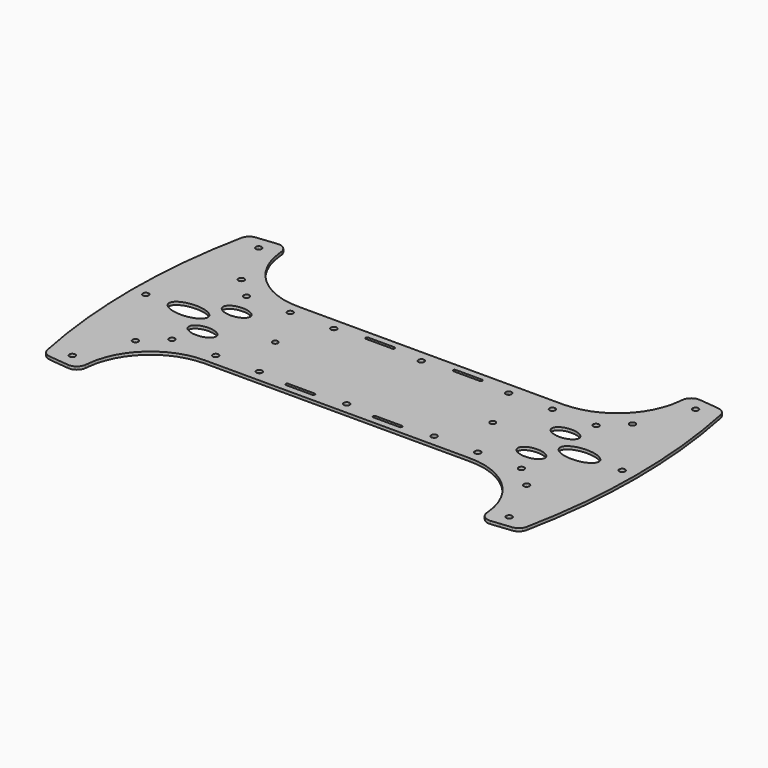
from build123d import *

# Parameters (mm, degrees)
F0_R     = 1.5
F1_DEPTH = 1.5


with BuildPart() as f1:
    # F0 (on Top) → F1 (new body)
    with BuildSketch(Plane.XY):
        with BuildLine():
            Line((-121.2556141995, 711.6457370259), (-131.7556141995, 711.6457370259))
            ThreePointArc((-131.7556141995, 711.6457370259), (-132.1949540277, 710.5850768541), (-133.2556141995, 710.1457370259))
            Line((-133.2556141995, 710.1457370259), (-133.2556141995, 653.0572210016))
            ThreePointArc((-133.2556141995, 653.0572210016), (-131.9496934446, 654.3807580659), (-130.2504678897, 655.1356169219))
            Line((-130.2504678897, 655.1356169219), (-126.9809034148, 686.2434449429))
            Line((-126.9809034148, 686.2434449429), (-112.0630749843, 684.6755179939))
            Line((-112.0630749843, 684.6755179939), (-112.7947741962, 677.7138650203))
            Line((-112.7947741962, 677.7138650203), (-116.244213515, 644.8946421792))
            ThreePointArc((-116.244213515, 644.8946421792), (-114.5957609711, 646.4950310884), (-113.8370558712, 648.6636728341))
            Line((-113.8370558712, 648.6636728341), (-113.6646260243, 650.3042332403))
            ThreePointArc((-113.6646260243, 650.3042332403), (-102.2759309089, 672.6558059176), (-78.8563596864, 681.6457370259))
            Line((-78.8563596864, 681.6457370259), (-10.5759569506, 681.6457370259))
            Line((-10.5759569506, 681.6457370259), (-10.5759569506, 686.1457370259))
            ThreePointArc((-10.5759569506, 686.1457370259), (-12.0759569506, 687.6457370259), (-10.5759569506, 689.1457370259))
            Line((-10.5759569506, 689.1457370259), (-10.5759569506, 711.6457370259))
            Line((-10.5759569506, 711.6457370259), (-65.1759569506, 711.6457370259))
            ThreePointArc((-65.1759569506, 711.6457370259), (-66.5759569506, 710.2457370259), (-67.9759569506, 711.6457370259))
            Line((-67.9759569506, 711.6457370259), (-101.2556141995, 711.6457370259))
            add(Edge.make_bspline(
                [(-111.2556141995, 706.6457370259), (-101.2556141995, 706.6457370259), (-101.2556141995, 711.6457370259)],
                knots=[4.7123889804, 4.7123889804, 4.7123889804, 6.2831853072, 6.2831853072, 6.2831853072], degree=2, weights=[1, 0.7071067812, 1]))
            add(Edge.make_bspline(
                [(-121.2556141995, 711.6457370259), (-121.2556141995, 706.6457370259), (-111.2556141995, 706.6457370259)],
                knots=[3.1415926536, 3.1415926536, 3.1415926536, 4.7123889804, 4.7123889804, 4.7123889804], degree=2, weights=[1, 0.7071067812, 1]))
        make_face()
        with BuildLine():
            ThreePointArc((-109.8029913841, 677.5570720314), (-111.381495466, 676.059127737), (-112.7947741962, 677.7138650203))
            ThreePointArc((-112.7947741962, 677.7138650203), (-111.2244873021, 679.0550163258), (-109.8029913841, 677.5570720314))
        make_face(mode=Mode.SUBTRACT)
        with Locations((-100.5759569506, 687.6457370259)):
            Circle(F0_R, mode=Mode.SUBTRACT)
        with Locations((-78.0759569506, 687.6457370259)):
            Circle(F0_R, mode=Mode.SUBTRACT)
        with BuildLine():
            add(Edge.make_bspline(
                [(-95.2556141995, 696.6457370259), (-83.1312585465, 696.6457370259), (-89.193436373, 702.6457370259), (-95.2556141995, 708.6457370259), (-101.317792026, 702.6457370259), (-107.3799698525, 696.6457370259), (-95.2556141995, 696.6457370259)],
                knots=[4.7123889804, 4.7123889804, 4.7123889804, 6.8067840828, 6.8067840828, 8.9011791852, 8.9011791852, 10.9955742876, 10.9955742876, 10.9955742876], degree=2, weights=[1, 0.5, 1, 0.5, 1, 0.5, 1]))
        make_face(mode=Mode.SUBTRACT)
        with Locations((-55.5759569506, 687.6457370259)):
            Circle(F0_R, mode=Mode.SUBTRACT)
        with BuildLine():
            ThreePointArc((-26.3259569506, 686.6457370259), (-25.7956268647, 686.4260671118), (-25.5759569506, 685.8957370259))
            ThreePointArc((-25.5759569506, 685.8957370259), (-25.7956268647, 685.36540694), (-26.3259569506, 685.1457370259))
            Line((-26.3259569506, 685.1457370259), (-39.8259569506, 685.1457370259))
            ThreePointArc((-39.8259569506, 685.1457370259), (-40.3562870365, 685.36540694), (-40.5759569506, 685.8957370259))
            ThreePointArc((-40.5759569506, 685.8957370259), (-40.3562870365, 686.4260671118), (-39.8259569506, 686.6457370259))
            Line((-39.8259569506, 686.6457370259), (-26.3259569506, 686.6457370259))
        make_face(mode=Mode.SUBTRACT)
        with BuildLine():
            ThreePointArc((-133.2556141995, 713.1457370259), (-132.1949540277, 712.7063971977), (-131.7556141995, 711.6457370259))
            Line((-131.7556141995, 711.6457370259), (-121.2556141995, 711.6457370259))
            add(Edge.make_bspline(
                [(-101.2556141995, 711.6457370259), (-101.2556141995, 716.6457370259), (-111.2556141995, 716.6457370259), (-121.2556141995, 716.6457370259), (-121.2556141995, 711.6457370259)],
                knots=[0, 0, 0, 1.5707963268, 1.5707963268, 3.1415926536, 3.1415926536, 3.1415926536], degree=2, weights=[1, 0.7071067812, 1, 0.7071067812, 1]))
            Line((-101.2556141995, 711.6457370259), (-67.9759569506, 711.6457370259))
            ThreePointArc((-67.9759569506, 711.6457370259), (-66.5759569506, 713.0457370259), (-65.1759569506, 711.6457370259))
            Line((-65.1759569506, 711.6457370259), (-10.5759569506, 711.6457370259))
            Line((-10.5759569506, 711.6457370259), (-10.5759569506, 734.1457370259))
            ThreePointArc((-10.5759569506, 734.1457370259), (-12.0759569506, 735.6457370259), (-10.5759569506, 737.1457370259))
            Line((-10.5759569506, 737.1457370259), (-10.5759569506, 741.6457370259))
            Line((-10.5759569506, 741.6457370259), (-78.8563596864, 741.6457370259))
            ThreePointArc((-78.8563596864, 741.6457370259), (-102.2759309089, 750.6356681342), (-113.6646260243, 772.9872408115))
            Line((-113.6646260243, 772.9872408115), (-113.8370558712, 774.6278012177))
            ThreePointArc((-113.8370558712, 774.6278012177), (-114.5957609711, 776.7964429634), (-116.244213515, 778.3968318726))
            Line((-116.244213515, 778.3968318726), (-112.7947742123, 745.5776091847))
            Line((-112.7947742123, 745.5776091847), (-112.0630749843, 738.6159560579))
            Line((-112.0630749843, 738.6159560579), (-119.5219891995, 737.8319925834))
            Line((-119.5219891995, 737.8319925834), (-126.9809034148, 737.0480291089))
            Line((-126.9809034148, 737.0480291089), (-130.2504678897, 768.1558571299))
            ThreePointArc((-130.2504678897, 768.1558571299), (-131.9496934446, 768.9107159859), (-133.2556141995, 770.2342530502))
            Line((-133.2556141995, 770.2342530502), (-133.2556141995, 713.1457370259))
        make_face()
        with BuildLine():
            add(Edge.make_bspline(
                [(-95.2556141995, 718.6457370259), (-83.1312585465, 718.6457370259), (-89.193436373, 724.6457370259), (-95.2556141995, 730.6457370259), (-101.317792026, 724.6457370259), (-107.3799698525, 718.6457370259), (-95.2556141995, 718.6457370259)],
                knots=[4.7123889804, 4.7123889804, 4.7123889804, 6.8067840828, 6.8067840828, 8.9011791852, 8.9011791852, 10.9955742876, 10.9955742876, 10.9955742876], degree=2, weights=[1, 0.5, 1, 0.5, 1, 0.5, 1]))
        make_face(mode=Mode.SUBTRACT)
        with Locations((-100.5759569506, 735.6457370259)):
            Circle(F0_R, mode=Mode.SUBTRACT)
        with Locations((-78.0759569506, 735.6457370259)):
            Circle(F0_R, mode=Mode.SUBTRACT)
        with Locations((-55.5759569506, 735.6457370259)):
            Circle(F0_R, mode=Mode.SUBTRACT)
        with BuildLine():
            ThreePointArc((-40.5759569506, 737.3957370259), (-40.3562870365, 737.9260671118), (-39.8259569506, 738.1457370259))
            Line((-39.8259569506, 738.1457370259), (-26.3259569506, 738.1457370259))
            ThreePointArc((-26.3259569506, 738.1457370259), (-25.7956268647, 737.9260671118), (-25.5759569506, 737.3957370259))
            ThreePointArc((-25.5759569506, 737.3957370259), (-25.7956268647, 736.86540694), (-26.3259569506, 736.6457370259))
            Line((-26.3259569506, 736.6457370259), (-39.8259569506, 736.6457370259))
            ThreePointArc((-39.8259569506, 736.6457370259), (-40.3562870365, 736.86540694), (-40.5759569506, 737.3957370259))
        make_face(mode=Mode.SUBTRACT)
        with BuildLine():
            ThreePointArc((-109.8029913841, 745.7344020204), (-111.224487379, 744.2364577219), (-112.7947742123, 745.5776091847))
            ThreePointArc((-112.7947742123, 745.5776091847), (-111.3814953891, 747.2323463188), (-109.8029913841, 745.7344020204))
        make_face(mode=Mode.SUBTRACT)
        with BuildLine():
            Line((-10.5759569506, 734.1457370259), (-10.5759569506, 711.6457370259))
            Line((-10.5759569506, 711.6457370259), (44.0240430494, 711.6457370259))
            ThreePointArc((44.0240430494, 711.6457370259), (45.4240430494, 713.0457370259), (46.8240430494, 711.6457370259))
            Line((46.8240430494, 711.6457370259), (80.1037002983, 711.6457370259))
            add(Edge.make_bspline(
                [(100.1037002983, 711.6457370259), (100.1037002983, 716.6457370259), (90.1037002983, 716.6457370259), (80.1037002983, 716.6457370259), (80.1037002983, 711.6457370259)],
                knots=[0, 0, 0, 1.5707963268, 1.5707963268, 3.1415926536, 3.1415926536, 3.1415926536], degree=2, weights=[1, 0.7071067812, 1, 0.7071067812, 1]))
            Line((100.1037002983, 711.6457370259), (110.6037002983, 711.6457370259))
            ThreePointArc((110.6037002983, 711.6457370259), (111.0430401265, 712.7063971977), (112.1037002983, 713.1457370259))
            Line((112.1037002983, 713.1457370259), (112.1037002983, 770.2342530502))
            ThreePointArc((112.1037002983, 770.2342530502), (110.7977795433, 768.9107159859), (109.0985539885, 768.1558571299))
            Line((109.0985539885, 768.1558571299), (105.8289895135, 737.0480291089))
            Line((105.8289895135, 737.0480291089), (98.3700752983, 737.8319925834))
            Line((98.3700752983, 737.8319925834), (90.911161083, 738.6159560579))
            Line((90.911161083, 738.6159560579), (91.6428602959, 745.5776090401))
            Line((91.6428602959, 745.5776090401), (95.0922996137, 778.3968318726))
            ThreePointArc((95.0922996137, 778.3968318726), (93.4438470699, 776.7964429634), (92.6851419699, 774.6278012177))
            Line((92.6851419699, 774.6278012177), (92.512712123, 772.9872408115))
            ThreePointArc((92.512712123, 772.9872408115), (81.1240170077, 750.6356681342), (57.7044457851, 741.6457370259))
            Line((57.7044457851, 741.6457370259), (-10.5759569506, 741.6457370259))
            Line((-10.5759569506, 741.6457370259), (-10.5759569506, 737.1457370259))
            ThreePointArc((-10.5759569506, 737.1457370259), (-9.5152967788, 736.7063971977), (-9.0759569506, 735.6457370259))
            ThreePointArc((-9.0759569506, 735.6457370259), (-9.5152967788, 734.5850768541), (-10.5759569506, 734.1457370259))
        make_face()
        with BuildLine():
            ThreePointArc((4.4240430494, 737.3957370259), (4.6437129635, 737.9260671118), (5.1740430494, 738.1457370259))
            Line((5.1740430494, 738.1457370259), (18.6740430494, 738.1457370259))
            ThreePointArc((18.6740430494, 738.1457370259), (19.2043731353, 737.9260671118), (19.4240430494, 737.3957370259))
            ThreePointArc((19.4240430494, 737.3957370259), (19.2043731353, 736.86540694), (18.6740430494, 736.6457370259))
            Line((18.6740430494, 736.6457370259), (5.1740430494, 736.6457370259))
            ThreePointArc((5.1740430494, 736.6457370259), (4.6437129635, 736.86540694), (4.4240430494, 737.3957370259))
        make_face(mode=Mode.SUBTRACT)
        with Locations((34.4240430494, 735.6457370259)):
            Circle(F0_R, mode=Mode.SUBTRACT)
        with BuildLine():
            add(Edge.make_bspline(
                [(74.1037002983, 718.6457370259), (86.2280559512, 718.6457370259), (80.1658781247, 724.6457370259), (74.1037002983, 730.6457370259), (68.0415224718, 724.6457370259), (61.9793446453, 718.6457370259), (74.1037002983, 718.6457370259)],
                knots=[4.7123889804, 4.7123889804, 4.7123889804, 6.8067840828, 6.8067840828, 8.9011791852, 8.9011791852, 10.9955742876, 10.9955742876, 10.9955742876], degree=2, weights=[1, 0.5, 1, 0.5, 1, 0.5, 1]))
        make_face(mode=Mode.SUBTRACT)
        with Locations((56.9240430494, 735.6457370259)):
            Circle(F0_R, mode=Mode.SUBTRACT)
        with Locations((79.4240430494, 735.6457370259)):
            Circle(F0_R, mode=Mode.SUBTRACT)
        with BuildLine():
            ThreePointArc((91.6510774828, 745.7344020204), (91.6490217775, 745.6558979427), (91.6428602959, 745.5776090401))
            ThreePointArc((91.6428602959, 745.5776090401), (88.6531331882, 745.812906098), (91.6510774828, 745.7344020204))
        make_face(mode=Mode.SUBTRACT)
        with BuildLine():
            Line((44.0240430494, 711.6457370259), (-10.5759569506, 711.6457370259))
            Line((-10.5759569506, 711.6457370259), (-10.5759569506, 689.1457370259))
            ThreePointArc((-10.5759569506, 689.1457370259), (-9.5152967788, 688.7063971977), (-9.0759569506, 687.6457370259))
            ThreePointArc((-9.0759569506, 687.6457370259), (-9.5152967788, 686.5850768541), (-10.5759569506, 686.1457370259))
            Line((-10.5759569506, 686.1457370259), (-10.5759569506, 681.6457370259))
            Line((-10.5759569506, 681.6457370259), (57.7044457851, 681.6457370259))
            ThreePointArc((57.7044457851, 681.6457370259), (81.1240170077, 672.6558059176), (92.512712123, 650.3042332403))
            Line((92.512712123, 650.3042332403), (92.6851419699, 648.6636728341))
            ThreePointArc((92.6851419699, 648.6636728341), (93.4438470699, 646.4950310884), (95.0922996137, 644.8946421792))
            Line((95.0922996137, 644.8946421792), (91.6428603111, 677.7138648671))
            Line((91.6428603111, 677.7138648671), (90.911161083, 684.6755179939))
            Line((90.911161083, 684.6755179939), (98.3700752983, 685.4594814684))
            Line((98.3700752983, 685.4594814684), (105.8289895135, 686.2434449429))
            Line((105.8289895135, 686.2434449429), (109.0985539885, 655.1356169219))
            ThreePointArc((109.0985539885, 655.1356169219), (110.7977795433, 654.3807580659), (112.1037002983, 653.0572210016))
            Line((112.1037002983, 653.0572210016), (112.1037002983, 710.1457370259))
            ThreePointArc((112.1037002983, 710.1457370259), (111.0430401265, 710.5850768541), (110.6037002983, 711.6457370259))
            Line((110.6037002983, 711.6457370259), (100.1037002983, 711.6457370259))
            add(Edge.make_bspline(
                [(90.1037002983, 706.6457370259), (100.1037002983, 706.6457370259), (100.1037002983, 711.6457370259)],
                knots=[4.7123889804, 4.7123889804, 4.7123889804, 6.2831853072, 6.2831853072, 6.2831853072], degree=2, weights=[1, 0.7071067812, 1]))
            add(Edge.make_bspline(
                [(80.1037002983, 711.6457370259), (80.1037002983, 706.6457370259), (90.1037002983, 706.6457370259)],
                knots=[3.1415926536, 3.1415926536, 3.1415926536, 4.7123889804, 4.7123889804, 4.7123889804], degree=2, weights=[1, 0.7071067812, 1]))
            Line((80.1037002983, 711.6457370259), (46.8240430494, 711.6457370259))
            ThreePointArc((46.8240430494, 711.6457370259), (45.4240430494, 710.2457370259), (44.0240430494, 711.6457370259))
        make_face()
        with BuildLine():
            ThreePointArc((91.6510774828, 677.5570720314), (88.6531331844, 677.4785680264), (91.6428603111, 677.7138648671))
            ThreePointArc((91.6428603111, 677.7138648671), (91.6490217813, 677.6355760365), (91.6510774828, 677.5570720314))
        make_face(mode=Mode.SUBTRACT)
        with BuildLine():
            Line((18.6740430494, 685.1457370259), (5.1740430494, 685.1457370259))
            ThreePointArc((5.1740430494, 685.1457370259), (4.6437129635, 685.36540694), (4.4240430494, 685.8957370259))
            ThreePointArc((4.4240430494, 685.8957370259), (4.6437129635, 686.4260671118), (5.1740430494, 686.6457370259))
            Line((5.1740430494, 686.6457370259), (18.6740430494, 686.6457370259))
            ThreePointArc((18.6740430494, 686.6457370259), (19.2043731353, 686.4260671118), (19.4240430494, 685.8957370259))
            ThreePointArc((19.4240430494, 685.8957370259), (19.2043731353, 685.36540694), (18.6740430494, 685.1457370259))
        make_face(mode=Mode.SUBTRACT)
        with Locations((34.4240430494, 687.6457370259)):
            Circle(F0_R, mode=Mode.SUBTRACT)
        with Locations((56.9240430494, 687.6457370259)):
            Circle(F0_R, mode=Mode.SUBTRACT)
        with Locations((79.4240430494, 687.6457370259)):
            Circle(F0_R, mode=Mode.SUBTRACT)
        with BuildLine():
            add(Edge.make_bspline(
                [(74.1037002983, 696.6457370259), (86.2280559512, 696.6457370259), (80.1658781247, 702.6457370259), (74.1037002983, 708.6457370259), (68.0415224718, 702.6457370259), (61.9793446453, 696.6457370259), (74.1037002983, 696.6457370259)],
                knots=[4.7123889804, 4.7123889804, 4.7123889804, 6.8067840828, 6.8067840828, 8.9011791852, 8.9011791852, 10.9955742876, 10.9955742876, 10.9955742876], degree=2, weights=[1, 0.5, 1, 0.5, 1, 0.5, 1]))
        make_face(mode=Mode.SUBTRACT)
        with BuildLine():
            Line((-119.8355745893, 740.8155582695), (-119.5219891995, 737.8319925834))
            Line((-119.5219891995, 737.8319925834), (-112.0630749843, 738.6159560579))
            Line((-112.0630749843, 738.6159560579), (-112.7947742123, 745.5776091847))
            Line((-112.7947742123, 745.5776091847), (-116.244213515, 778.3968318726))
            ThreePointArc((-116.244213515, 778.3968318726), (-117.7330101982, 778.9878644719), (-119.3323076643, 779.0777683782))
            Line((-119.3323076643, 779.0777683782), (-123.8076561935, 778.6073902935))
            Line((-123.8076561935, 778.6073902935), (-123.2327496455, 773.137519869))
            ThreePointArc((-123.2327496455, 773.137519869), (-122.0722610411, 772.7604542641), (-121.5759569506, 771.6457370259))
            ThreePointArc((-121.5759569506, 771.6457370259), (-121.9612397124, 770.6420411164), (-122.9191642557, 770.1539541828))
            Line((-122.9191642557, 770.1539541828), (-122.1874650128, 763.1923009153))
            Line((-122.1874650128, 763.1923009153), (-119.7011602744, 763.4536220734))
            ThreePointArc((-119.7011602744, 763.4536220734), (-118.2334625658, 763.0188702056), (-117.5030595572, 761.6736352092))
            Line((-117.5030595572, 761.6736352092), (-115.5692829867, 743.2749801449))
            ThreePointArc((-115.5692829867, 743.2749801449), (-116.0040348545, 741.8072824363), (-117.3492698509, 741.0768794277))
            Line((-117.3492698509, 741.0768794277), (-119.8355745893, 740.8155582695))
        make_face()
        with BuildLine():
            Line((-122.1874650128, 763.1923009153), (-119.8355745893, 740.8155582695))
            Line((-119.8355745893, 740.8155582695), (-117.3492698509, 741.0768794277))
            ThreePointArc((-117.3492698509, 741.0768794277), (-116.0040348545, 741.8072824363), (-115.5692829867, 743.2749801449))
            Line((-115.5692829867, 743.2749801449), (-117.5030595572, 761.6736352092))
            ThreePointArc((-117.5030595572, 761.6736352092), (-118.2334625658, 763.0188702056), (-119.7011602744, 763.4536220734))
            Line((-119.7011602744, 763.4536220734), (-122.1874650128, 763.1923009153))
        make_face()
        with BuildLine():
            Line((-122.3218793277, 740.5542371113), (-119.8355745893, 740.8155582695))
            Line((-119.8355745893, 740.8155582695), (-122.1874650128, 763.1923009153))
            Line((-122.1874650128, 763.1923009153), (-124.6737697513, 762.9309797571))
            ThreePointArc((-124.6737697513, 762.9309797571), (-126.0190047476, 762.2005767485), (-126.4537566155, 760.7328790398))
            Line((-126.4537566155, 760.7328790398), (-124.519980045, 742.3342239755))
            ThreePointArc((-124.519980045, 742.3342239755), (-123.7895770364, 740.9889889791), (-122.3218793277, 740.5542371113))
        make_face()
        with BuildLine():
            ThreePointArc((-124.4813192926, 771.1213739), (-126.8197356751, 768.5761139615), (-130.2504678897, 768.1558571299))
            Line((-130.2504678897, 768.1558571299), (-126.9809034148, 737.0480291089))
            Line((-126.9809034148, 737.0480291089), (-119.5219891995, 737.8319925834))
            Line((-119.5219891995, 737.8319925834), (-119.8355745893, 740.8155582695))
            Line((-119.8355745893, 740.8155582695), (-122.3218793277, 740.5542371113))
            ThreePointArc((-122.3218793277, 740.5542371113), (-123.7895770364, 740.9889889791), (-124.519980045, 742.3342239755))
            Line((-124.519980045, 742.3342239755), (-126.4537566155, 760.7328790398))
            ThreePointArc((-126.4537566155, 760.7328790398), (-126.0190047476, 762.2005767485), (-124.6737697513, 762.9309797571))
            Line((-124.6737697513, 762.9309797571), (-122.1874650128, 763.1923009153))
            Line((-122.1874650128, 763.1923009153), (-122.9191642557, 770.1539541828))
            ThreePointArc((-122.9191642557, 770.1539541828), (-123.8657080305, 770.3704750011), (-124.4813192926, 771.1213739))
        make_face()
        with BuildLine():
            Line((-126.9809034148, 686.2434449429), (-130.2504678897, 655.1356169219))
            ThreePointArc((-130.2504678897, 655.1356169219), (-126.8197356751, 654.7153600903), (-124.4813192926, 652.1701001518))
            ThreePointArc((-124.4813192926, 652.1701001518), (-122.8095395271, 653.1218880197), (-121.5759569506, 651.6457370259))
            ThreePointArc((-121.5759569506, 651.6457370259), (-122.4875148923, 650.2659776469), (-124.1142715426, 650.5631924272))
            ThreePointArc((-124.1142715426, 650.5631924272), (-124.1077512655, 650.4158898647), (-124.1055772096, 650.268459093))
            ThreePointArc((-124.1055772096, 650.268459093), (-125.7599240194, 646.5527351083), (-129.6282191018, 645.2958495716))
            Line((-129.6282191018, 645.2958495716), (-119.3323076643, 644.2137056736))
            ThreePointArc((-119.3323076643, 644.2137056736), (-117.7330101982, 644.3036095799), (-116.244213515, 644.8946421792))
            Line((-116.244213515, 644.8946421792), (-112.7947741962, 677.7138650203))
            Line((-112.7947741962, 677.7138650203), (-112.0630749843, 684.6755179939))
            Line((-112.0630749843, 684.6755179939), (-126.9809034148, 686.2434449429))
        make_face()
        with BuildLine():
            ThreePointArc((-124.519980045, 680.9572500763), (-123.7895770364, 682.3024850727), (-122.3218793277, 682.7372369405))
            Line((-122.3218793277, 682.7372369405), (-117.3492698509, 682.2145946241))
            ThreePointArc((-117.3492698509, 682.2145946241), (-116.0040348545, 681.4841916155), (-115.5692829867, 680.0164939069))
            Line((-115.5692829867, 680.0164939069), (-117.5030595572, 661.6178388426))
            ThreePointArc((-117.5030595572, 661.6178388426), (-118.2334625658, 660.2726038462), (-119.7011602744, 659.8378519784))
            Line((-119.7011602744, 659.8378519784), (-124.6737697513, 660.3604942947))
            ThreePointArc((-124.6737697513, 660.3604942947), (-126.0190047476, 661.0908973033), (-126.4537566155, 662.558595012))
            Line((-126.4537566155, 662.558595012), (-124.519980045, 680.9572500763))
        make_face(mode=Mode.SUBTRACT)
        with BuildLine():
            Line((-117.3492698509, 682.2145946241), (-122.3218793277, 682.7372369405))
            ThreePointArc((-122.3218793277, 682.7372369405), (-123.7895770364, 682.3024850727), (-124.519980045, 680.9572500763))
            Line((-124.519980045, 680.9572500763), (-126.4537566155, 662.558595012))
            ThreePointArc((-126.4537566155, 662.558595012), (-126.0190047476, 661.0908973033), (-124.6737697513, 660.3604942947))
            Line((-124.6737697513, 660.3604942947), (-119.7011602744, 659.8378519784))
            ThreePointArc((-119.7011602744, 659.8378519784), (-118.2334625658, 660.2726038462), (-117.5030595572, 661.6178388426))
            Line((-117.5030595572, 661.6178388426), (-115.5692829867, 680.0164939069))
            ThreePointArc((-115.5692829867, 680.0164939069), (-116.0040348545, 681.4841916155), (-117.3492698509, 682.2145946241))
        make_face()
        with BuildLine():
            Line((91.6428603111, 677.7138648671), (95.0922996137, 644.8946421792))
            ThreePointArc((95.0922996137, 644.8946421792), (96.581096297, 644.3036095799), (98.1803937631, 644.2137056736))
            Line((98.1803937631, 644.2137056736), (102.6557422923, 644.6840837583))
            Line((102.6557422923, 644.6840837583), (102.0808357443, 650.1539541828))
            ThreePointArc((102.0808357443, 650.1539541828), (100.4322602063, 651.488944331), (101.7672503545, 653.137519869))
            Line((101.7672503545, 653.137519869), (101.0355511116, 660.0991731365))
            Line((101.0355511116, 660.0991731365), (98.5492463732, 659.8378519784))
            ThreePointArc((98.5492463732, 659.8378519784), (97.0815486645, 660.2726038462), (96.3511456559, 661.6178388426))
            Line((96.3511456559, 661.6178388426), (94.4173690855, 680.0164939069))
            ThreePointArc((94.4173690855, 680.0164939069), (94.8521209533, 681.4841916155), (96.1973559497, 682.2145946241))
            Line((96.1973559497, 682.2145946241), (98.6836606881, 682.4759157823))
            Line((98.6836606881, 682.4759157823), (98.3700752983, 685.4594814684))
            Line((98.3700752983, 685.4594814684), (90.911161083, 684.6755179939))
            Line((90.911161083, 684.6755179939), (91.6428603111, 677.7138648671))
        make_face()
        with BuildLine():
            Line((101.0355511116, 660.0991731365), (98.6836606881, 682.4759157823))
            Line((98.6836606881, 682.4759157823), (96.1973559497, 682.2145946241))
            ThreePointArc((96.1973559497, 682.2145946241), (94.8521209533, 681.4841916155), (94.4173690855, 680.0164939069))
            Line((94.4173690855, 680.0164939069), (96.3511456559, 661.6178388426))
            ThreePointArc((96.3511456559, 661.6178388426), (97.0815486645, 660.2726038462), (98.5492463732, 659.8378519784))
            Line((98.5492463732, 659.8378519784), (101.0355511116, 660.0991731365))
        make_face()
        with BuildLine():
            Line((101.1699654265, 682.7372369405), (98.6836606881, 682.4759157823))
            Line((98.6836606881, 682.4759157823), (101.0355511116, 660.0991731365))
            Line((101.0355511116, 660.0991731365), (103.52185585, 660.3604942947))
            ThreePointArc((103.52185585, 660.3604942947), (104.8670908464, 661.0908973033), (105.3018427142, 662.558595012))
            Line((105.3018427142, 662.558595012), (103.3680661438, 680.9572500763))
            ThreePointArc((103.3680661438, 680.9572500763), (102.6376631351, 682.3024850727), (101.1699654265, 682.7372369405))
        make_face()
        with BuildLine():
            ThreePointArc((103.3294053913, 652.1701001518), (105.6678217739, 654.7153600903), (109.0985539885, 655.1356169219))
            Line((109.0985539885, 655.1356169219), (105.8289895135, 686.2434449429))
            Line((105.8289895135, 686.2434449429), (98.3700752983, 685.4594814684))
            Line((98.3700752983, 685.4594814684), (98.6836606881, 682.4759157823))
            Line((98.6836606881, 682.4759157823), (101.1699654265, 682.7372369405))
            ThreePointArc((101.1699654265, 682.7372369405), (102.6376631351, 682.3024850727), (103.3680661438, 680.9572500763))
            Line((103.3680661438, 680.9572500763), (105.3018427142, 662.558595012))
            ThreePointArc((105.3018427142, 662.558595012), (104.8670908464, 661.0908973033), (103.52185585, 660.3604942947))
            Line((103.52185585, 660.3604942947), (101.0355511116, 660.0991731365))
            Line((101.0355511116, 660.0991731365), (101.7672503545, 653.137519869))
            ThreePointArc((101.7672503545, 653.137519869), (102.7137941292, 652.9209990507), (103.3294053913, 652.1701001518))
        make_face()
        with BuildLine():
            ThreePointArc((98.1803937631, 779.0777683782), (96.581096297, 778.9878644719), (95.0922996137, 778.3968318726))
            Line((95.0922996137, 778.3968318726), (91.6428602959, 745.5776090401))
            Line((91.6428602959, 745.5776090401), (90.911161083, 738.6159560579))
            Line((90.911161083, 738.6159560579), (98.3700752983, 737.8319925834))
            Line((98.3700752983, 737.8319925834), (98.6836606881, 740.8155582695))
            Line((98.6836606881, 740.8155582695), (96.1973559497, 741.0768794277))
            ThreePointArc((96.1973559497, 741.0768794277), (94.8521209533, 741.8072824363), (94.4173690855, 743.2749801449))
            Line((94.4173690855, 743.2749801449), (96.3511456559, 761.6736352092))
            ThreePointArc((96.3511456559, 761.6736352092), (97.0815486645, 763.0188702056), (98.5492463732, 763.4536220734))
            Line((98.5492463732, 763.4536220734), (101.0355511116, 763.1923009153))
            Line((101.0355511116, 763.1923009153), (101.7672503545, 770.1539541828))
            ThreePointArc((101.7672503545, 770.1539541828), (100.4322602063, 771.8025297208), (102.0808357443, 773.137519869))
            Line((102.0808357443, 773.137519869), (102.6557422923, 778.6073902935))
            Line((102.6557422923, 778.6073902935), (98.1803937631, 779.0777683782))
        make_face()
        with BuildLine():
            Line((96.1973559497, 741.0768794277), (98.6836606881, 740.8155582695))
            Line((98.6836606881, 740.8155582695), (101.0355511116, 763.1923009153))
            Line((101.0355511116, 763.1923009153), (98.5492463732, 763.4536220734))
            ThreePointArc((98.5492463732, 763.4536220734), (97.0815486645, 763.0188702056), (96.3511456559, 761.6736352092))
            Line((96.3511456559, 761.6736352092), (94.4173690855, 743.2749801449))
            ThreePointArc((94.4173690855, 743.2749801449), (94.8521209533, 741.8072824363), (96.1973559497, 741.0768794277))
        make_face()
        with BuildLine():
            Line((101.0355511116, 763.1923009153), (98.6836606881, 740.8155582695))
            Line((98.6836606881, 740.8155582695), (101.1699654265, 740.5542371113))
            ThreePointArc((101.1699654265, 740.5542371113), (102.6376631351, 740.9889889791), (103.3680661438, 742.3342239755))
            Line((103.3680661438, 742.3342239755), (105.3018427142, 760.7328790398))
            ThreePointArc((105.3018427142, 760.7328790398), (104.8670908464, 762.2005767485), (103.52185585, 762.9309797571))
            Line((103.52185585, 762.9309797571), (101.0355511116, 763.1923009153))
        make_face()
        with BuildLine():
            Line((105.8289895135, 737.0480291089), (109.0985539885, 768.1558571299))
            ThreePointArc((109.0985539885, 768.1558571299), (105.6678217739, 768.5761139615), (103.3294053913, 771.1213739))
            ThreePointArc((103.3294053913, 771.1213739), (102.7137941292, 770.3704750011), (101.7672503545, 770.1539541828))
            Line((101.7672503545, 770.1539541828), (101.0355511116, 763.1923009153))
            Line((101.0355511116, 763.1923009153), (103.52185585, 762.9309797571))
            ThreePointArc((103.52185585, 762.9309797571), (104.8670908464, 762.2005767485), (105.3018427142, 760.7328790398))
            Line((105.3018427142, 760.7328790398), (103.3680661438, 742.3342239755))
            ThreePointArc((103.3680661438, 742.3342239755), (102.6376631351, 740.9889889791), (101.1699654265, 740.5542371113))
            Line((101.1699654265, 740.5542371113), (98.6836606881, 740.8155582695))
            Line((98.6836606881, 740.8155582695), (98.3700752983, 737.8319925834))
            Line((98.3700752983, 737.8319925834), (105.8289895135, 737.0480291089))
        make_face()
        with BuildLine():
            Line((112.1037002983, 775.8117768673), (112.1037002983, 770.2342530502))
            ThreePointArc((112.1037002983, 770.2342530502), (112.7364545933, 771.5653087039), (112.9536633084, 773.0230149588))
            ThreePointArc((112.9536633084, 773.0230149588), (112.9287503904, 773.5215212536), (112.854259898, 774.0150598498))
            ThreePointArc((112.854259898, 774.0150598498), (112.5672887871, 774.9503083828), (112.1037002983, 775.8117768673))
        make_face()
        with BuildLine():
            ThreePointArc((109.0985539885, 768.1558571299), (110.7977795433, 768.9107159859), (112.1037002983, 770.2342530502))
            Line((112.1037002983, 770.2342530502), (112.1037002983, 775.8117768673))
            ThreePointArc((112.1037002983, 775.8117768673), (111.2120514691, 776.8154952282), (110.0854743939, 777.5457775543))
            Line((110.0854743939, 777.5457775543), (109.0985539885, 768.1558571299))
        make_face()
        with BuildLine():
            ThreePointArc((103.3294053913, 771.1213739), (105.6678217739, 768.5761139615), (109.0985539885, 768.1558571299))
            Line((109.0985539885, 768.1558571299), (110.0854743939, 777.5457775543))
            ThreePointArc((110.0854743939, 777.5457775543), (109.2998139415, 777.8383943283), (108.4763058221, 777.9956244149))
            ThreePointArc((108.4763058221, 777.9956244149), (104.4999026606, 776.6384730747), (102.9623576414, 772.7282816246))
            ThreePointArc((102.9623576414, 772.7282816246), (103.3038024284, 772.2341790842), (103.4240430494, 771.6457370259))
            ThreePointArc((103.4240430494, 771.6457370259), (103.4001940432, 771.3793196024), (103.3294053913, 771.1213739))
        make_face()
        with BuildLine():
            Line((108.4763058221, 777.9956244149), (102.6557422923, 778.6073902935))
            Line((102.6557422923, 778.6073902935), (102.0808357443, 773.137519869))
            ThreePointArc((102.0808357443, 773.137519869), (102.555659501, 773.0062739266), (102.9623576414, 772.7282816246))
            ThreePointArc((102.9623576414, 772.7282816246), (104.4999026606, 776.6384730747), (108.4763058221, 777.9956244149))
        make_face()
        with BuildLine():
            Line((112.1037002983, 770.2342530502), (112.1037002983, 713.1457370259))
            ThreePointArc((112.1037002983, 713.1457370259), (113.16436047, 712.7063971977), (113.6037002983, 711.6457370259))
            ThreePointArc((113.6037002983, 711.6457370259), (113.16436047, 710.5850768541), (112.1037002983, 710.1457370259))
            Line((112.1037002983, 710.1457370259), (112.1037002983, 653.0572210016))
            ThreePointArc((112.1037002983, 653.0572210016), (112.7364545933, 651.7261653479), (112.9536633084, 650.268459093))
            ThreePointArc((112.9536633084, 650.268459093), (112.9287504256, 649.7699531488), (112.8542600378, 649.2764148926))
            ThreePointArc((112.8542600378, 649.2764148926), (119.1037002983, 711.6457373782), (112.854259898, 774.0150598498))
            ThreePointArc((112.854259898, 774.0150598498), (112.9287503904, 773.5215212536), (112.9536633084, 773.0230149588))
            ThreePointArc((112.9536633084, 773.0230149588), (112.7364545933, 771.5653087039), (112.1037002983, 770.2342530502))
        make_face()
        with BuildLine():
            ThreePointArc((112.9536633084, 650.268459093), (112.7364545933, 651.7261653479), (112.1037002983, 653.0572210016))
            Line((112.1037002983, 653.0572210016), (112.1037002983, 647.4796971845))
            ThreePointArc((112.1037002983, 647.4796971845), (112.5672889229, 648.3411659941), (112.8542600378, 649.2764148926))
            ThreePointArc((112.8542600378, 649.2764148926), (112.9287504256, 649.7699531488), (112.9536633084, 650.268459093))
        make_face()
        with BuildLine():
            Line((112.1037002983, 647.4796971845), (112.1037002983, 653.0572210016))
            ThreePointArc((112.1037002983, 653.0572210016), (110.7977795433, 654.3807580659), (109.0985539885, 655.1356169219))
            Line((109.0985539885, 655.1356169219), (110.0854743939, 645.7456964975))
            ThreePointArc((110.0854743939, 645.7456964975), (111.2120514691, 646.4759788236), (112.1037002983, 647.4796971845))
        make_face()
        with BuildLine():
            Line((110.0854743939, 645.7456964975), (109.0985539885, 655.1356169219))
            ThreePointArc((109.0985539885, 655.1356169219), (105.6678217739, 654.7153600903), (103.3294053913, 652.1701001518))
            ThreePointArc((103.3294053913, 652.1701001518), (103.4001940432, 651.9121544494), (103.4240430494, 651.6457370259))
            ThreePointArc((103.4240430494, 651.6457370259), (103.3038024284, 651.0572949676), (102.9623576414, 650.5631924272))
            ThreePointArc((102.9623576414, 650.5631924272), (104.499902295, 646.6530013264), (108.4763048165, 645.2958495312))
            ThreePointArc((108.4763048165, 645.2958495312), (109.2998134546, 645.4530795873), (110.0854743939, 645.7456964975))
        make_face()
        with BuildLine():
            Line((102.0808357443, 650.1539541828), (102.6557422923, 644.6840837583))
            Line((102.6557422923, 644.6840837583), (108.4763048165, 645.2958495312))
            ThreePointArc((108.4763048165, 645.2958495312), (104.499902295, 646.6530013264), (102.9623576414, 650.5631924272))
            ThreePointArc((102.9623576414, 650.5631924272), (102.555659501, 650.2852001252), (102.0808357443, 650.1539541828))
        make_face()
        with BuildLine():
            ThreePointArc((-124.4813192926, 652.1701001518), (-126.8197356751, 654.7153600903), (-130.2504678897, 655.1356169219))
            Line((-130.2504678897, 655.1356169219), (-131.2373882951, 645.7456964975))
            ThreePointArc((-131.2373882951, 645.7456964975), (-130.4517275418, 645.4530796393), (-129.6282191018, 645.2958495716))
            ThreePointArc((-129.6282191018, 645.2958495716), (-125.7599240194, 646.5527351083), (-124.1055772096, 650.268459093))
            ThreePointArc((-124.1055772096, 650.268459093), (-124.1077512655, 650.4158898647), (-124.1142715426, 650.5631924272))
            ThreePointArc((-124.1142715426, 650.5631924272), (-124.5382932143, 651.311712099), (-124.4813192926, 652.1701001518))
        make_face()
        with BuildLine():
            ThreePointArc((-130.2504678897, 655.1356169219), (-131.9496934446, 654.3807580659), (-133.2556141995, 653.0572210016))
            Line((-133.2556141995, 653.0572210016), (-133.2556141995, 647.4796971845))
            ThreePointArc((-133.2556141995, 647.4796971845), (-132.3639653704, 646.4759788236), (-131.2373882951, 645.7456964975))
            Line((-131.2373882951, 645.7456964975), (-130.2504678897, 655.1356169219))
        make_face()
        with BuildLine():
            Line((-133.2556141995, 647.4796971845), (-133.2556141995, 653.0572210016))
            ThreePointArc((-133.2556141995, 653.0572210016), (-134.0098730273, 651.242051684), (-134.006173715, 649.276413786))
            ThreePointArc((-134.006173715, 649.276413786), (-133.7192026065, 648.3411654732), (-133.2556141995, 647.4796971845))
        make_face()
        with BuildLine():
            ThreePointArc((-133.2556141995, 710.1457370259), (-134.7556141995, 711.6457370259), (-133.2556141995, 713.1457370259))
            Line((-133.2556141995, 713.1457370259), (-133.2556141995, 770.2342530502))
            ThreePointArc((-133.2556141995, 770.2342530502), (-134.0098730324, 772.0494223936), (-134.0061737046, 774.0150603174))
            ThreePointArc((-134.0061737046, 774.0150603174), (-140.2556141995, 711.6457370522), (-134.006173715, 649.276413786))
            ThreePointArc((-134.006173715, 649.276413786), (-134.0098730273, 651.242051684), (-133.2556141995, 653.0572210016))
            Line((-133.2556141995, 653.0572210016), (-133.2556141995, 710.1457370259))
        make_face()
        with BuildLine():
            ThreePointArc((-134.0061737046, 774.0150603174), (-134.0098730324, 772.0494223936), (-133.2556141995, 770.2342530502))
            Line((-133.2556141995, 770.2342530502), (-133.2556141995, 775.8117768673))
            ThreePointArc((-133.2556141995, 775.8117768673), (-133.7192025964, 774.9503086029), (-134.0061737046, 774.0150603174))
        make_face()
        with BuildLine():
            Line((-133.2556141995, 775.8117768673), (-133.2556141995, 770.2342530502))
            ThreePointArc((-133.2556141995, 770.2342530502), (-131.9496934446, 768.9107159859), (-130.2504678897, 768.1558571299))
            Line((-130.2504678897, 768.1558571299), (-131.2373882951, 777.5457775543))
            ThreePointArc((-131.2373882951, 777.5457775543), (-132.3639653704, 776.8154952282), (-133.2556141995, 775.8117768673))
        make_face()
        with BuildLine():
            Line((-131.2373882951, 777.5457775543), (-130.2504678897, 768.1558571299))
            ThreePointArc((-130.2504678897, 768.1558571299), (-126.8197356751, 768.5761139615), (-124.4813192926, 771.1213739))
            ThreePointArc((-124.4813192926, 771.1213739), (-124.5382932143, 771.9797619528), (-124.1142715426, 772.7282816246))
            ThreePointArc((-124.1142715426, 772.7282816246), (-124.1077512655, 772.8755841871), (-124.1055772096, 773.0230149588))
            ThreePointArc((-124.1055772096, 773.0230149588), (-125.7599240194, 776.7387389435), (-129.6282191018, 777.9956244802))
            ThreePointArc((-129.6282191018, 777.9956244802), (-130.4517275418, 777.8383944125), (-131.2373882951, 777.5457775543))
        make_face()
        with BuildLine():
            Line((-123.8076561935, 778.6073902935), (-129.6282191018, 777.9956244802))
            ThreePointArc((-129.6282191018, 777.9956244802), (-125.7599240194, 776.7387389435), (-124.1055772096, 773.0230149588))
            ThreePointArc((-124.1055772096, 773.0230149588), (-124.1077512655, 772.8755841871), (-124.1142715426, 772.7282816246))
            ThreePointArc((-124.1142715426, 772.7282816246), (-123.7075734022, 773.0062739266), (-123.2327496455, 773.137519869))
            Line((-123.2327496455, 773.137519869), (-123.8076561935, 778.6073902935))
        make_face()
    extrude(amount=F1_DEPTH)


solid = f1.part
